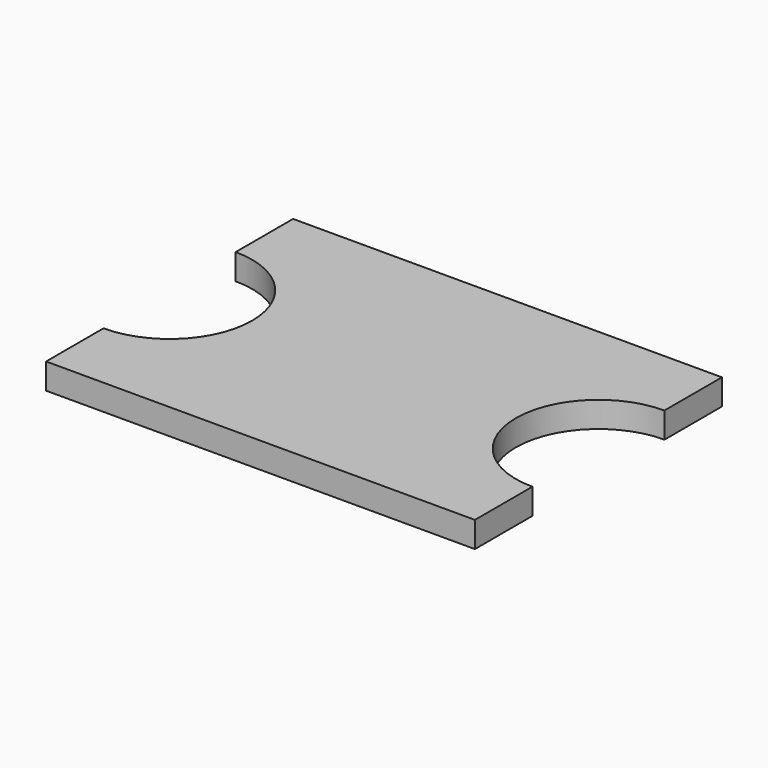
from build123d import *

# Parameters (mm, degrees)
F0_W     = 20
F0_H     = 14.4
F1_DEPTH = 1.2
F3_DEPTH = 25.4


with BuildPart() as f1:
    # F0 (on Top) → F1 (new body)
    with BuildSketch(Plane.XY):
        with Locations((-3.4372447997, -7.5929352783)):
            Rectangle(F0_W, F0_H)
    extrude(amount=F1_DEPTH)

    # F2 (on face) → F3 (cut)
    with BuildSketch(Plane.XY.offset(1.2)):
        with BuildLine():
            ThreePointArc((-13.4372447997, -11.4429352783), (-10.7148836922, -10.3152963859), (-9.5872447997, -7.5929352783))
            ThreePointArc((-9.5872447997, -7.5929352783), (-10.7148836922, -4.8705741708), (-13.4372447997, -3.7429352783))
            Line((-13.4372447997, -3.7429352783), (-13.4372447997, -11.4429352783))
        make_face()
        with BuildLine():
            Line((6.5627552003, -11.4429352783), (6.5627552003, -3.7429352783))
            ThreePointArc((6.5627552003, -3.7429352783), (2.7127552003, -7.5929352783), (6.5627552003, -11.4429352783))
        make_face()
    extrude(amount=-F3_DEPTH, mode=Mode.SUBTRACT)


solid = f1.part
